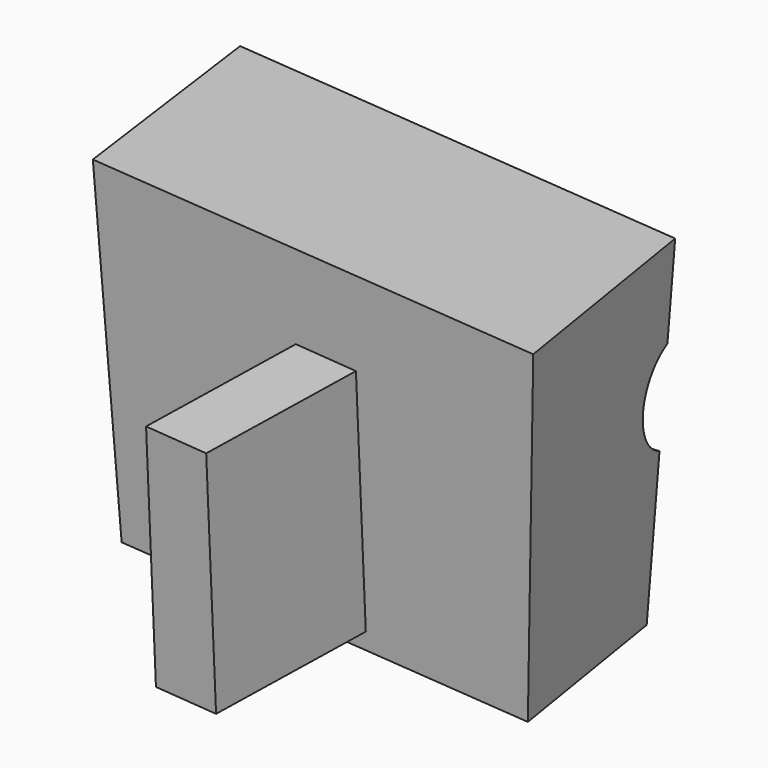
from build123d import *

# Parameters (mm, degrees)
F1_DEPTH = 76.2
F1_TAPER = -3
F2_R     = 11.2646539413
F3_DEPTH = 127
F4_T     = -12.7
F5_D     = 6.35
F6_W     = 14.6276317537
F6_H     = 52.8245866299
F8_DEPTH = 38.1


with BuildPart() as f1:
    # F0 (on Top) → F1 (new body)
    with BuildSketch(Plane.XY):
        Polygon((0, 0), (-97.3766073585, 8.691851981), (-91.719087719, -33.0650627753), (6.7379414104, -41.8533533812), align=None)
    extrude(amount=F1_DEPTH, taper=F1_TAPER)

    # F2 (on face) → F3 (cut)
    with BuildSketch(Plane(origin=(-94.2061631176, -12.7637116177, -4.9822445688), x_dir=(0.1338892143, -0.9909710079, 0.0070809466), z_dir=(-0.9895880386, -0.1340763271, -0.0523359562))):
        with Locations((-5.5252215825, 44.5609055459)):
            Circle(F2_R)
    extrude(amount=-F3_DEPTH, mode=Mode.SUBTRACT)

    # F4
    f4_openings = [f1.faces().sort_by_distance(p)[0] for p in [
        (-45.58374, -16.595081, 0),
    ]]
    offset(amount=F4_T, openings=f4_openings)

    # F5 (through all)
    with Locations(Plane(origin=(-3.6430423813, -40.8137538844, -2.1474622433), x_dir=(0.9960508275, -0.088662203, -0.004665063), z_dir=(-0.088784847, -0.9946749211, -0.0523359562))):
        with Locations((-54.7213628888, 39.8817788885)):
            Hole(F5_D / 2)

    # F6 (on face) → F8 (join)
    with BuildSketch(Plane(origin=(-3.6430423813, -40.8137538844, -2.1474622433), x_dir=(0.9960508275, -0.088662203, -0.004665063), z_dir=(-0.088784847, -0.9946749211, -0.0523359562))):
        with Locations((-36.151945591, 32.273888588)):
            Rectangle(F6_W, F6_H)
    extrude(amount=F8_DEPTH)


solid = f1.part
